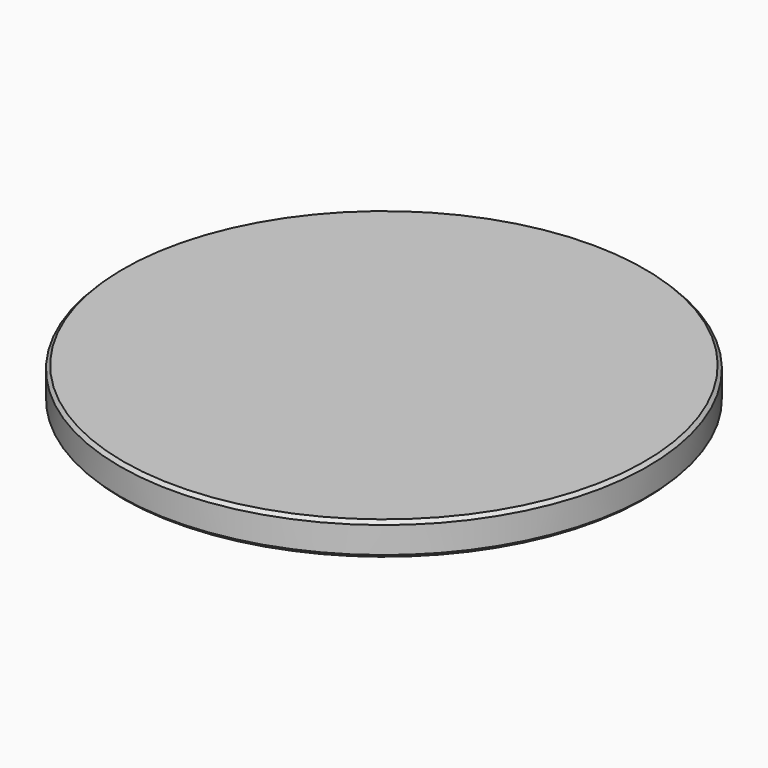
from build123d import *


with BuildPart() as part:
    # Sketch (on DatumPlane) → Revolution (revolve)
    with BuildSketch(Plane.YZ):
        Polygon((0, 0), (0, -2.5), (19.75, -2.5), (20, -2.25), (20, -0.25), (19.75, 0), align=None)
    revolve(axis=Axis((0, 0, 0), (0, 0, 1)))


solid = part.part
